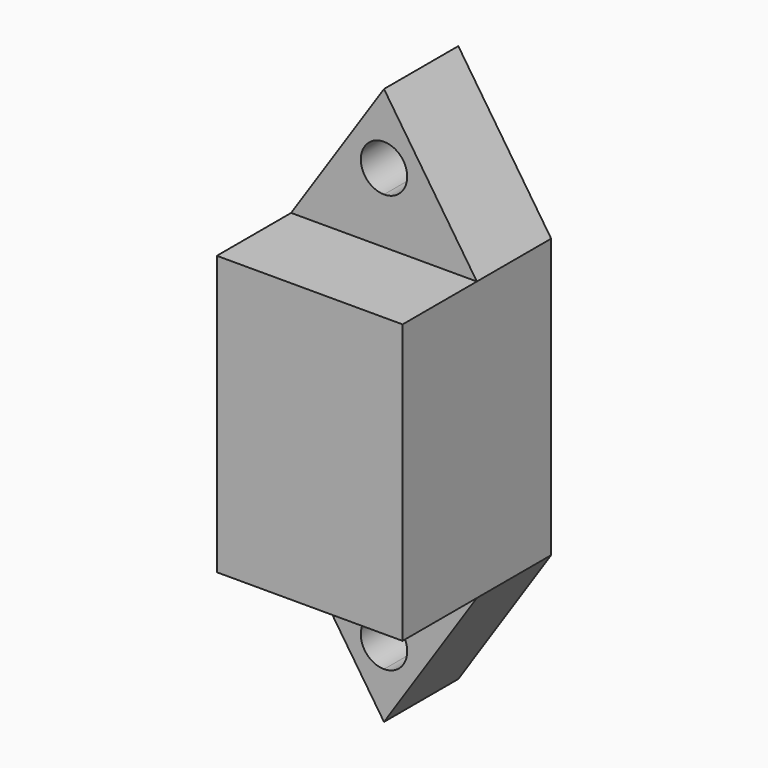
from build123d import *

# Parameters (mm, degrees)
F1_DEPTH = 101.6
F2_DEPTH = 50.8


with BuildPart() as f1:
    # F0 (on Front) → F1 (new body)
    with BuildSketch(Plane.XZ):
        Polygon((30.294443, 168.60885), (-20.505557, 168.60885), (-20.505557, 16.20885), (30.294443, 16.20885), (81.094443, 16.20885), (81.094443, 168.60885), align=None)
    extrude(amount=F1_DEPTH)

    # F0 (on Front) → F2 (join)
    with BuildSketch(Plane.XZ):
        with BuildLine():
            Line((30.294443, 244.80885), (-20.505557, 168.60885))
            Line((-20.505557, 168.60885), (30.294443, 168.60885))
            Line((30.294443, 168.60885), (30.294443, 194.00885))
            ThreePointArc((30.294443, 194.00885), (17.594443, 206.70885), (30.294443, 219.40885))
            Line((30.294443, 219.40885), (30.294443, 244.80885))
        make_face()
        Polygon((30.294443, 168.60885), (-20.505557, 168.60885), (-20.505557, 16.20885), (30.294443, 16.20885), (81.094443, 16.20885), (81.094443, 168.60885), align=None)
        with BuildLine():
            Line((30.294443, 194.00885), (30.294443, 168.60885))
            Line((30.294443, 168.60885), (81.094443, 168.60885))
            Line((81.094443, 168.60885), (30.294443, 244.80885))
            Line((30.294443, 244.80885), (30.294443, 219.40885))
            ThreePointArc((30.294443, 219.40885), (39.274699, 215.689107), (42.994443, 206.70885))
            ThreePointArc((42.994443, 206.70885), (39.274699, 197.728594), (30.294443, 194.00885))
        make_face()
        with BuildLine():
            Line((30.294443, 16.20885), (-20.505557, 16.20885))
            Line((-20.505557, 16.20885), (30.294443, -59.99115))
            Line((30.294443, -59.99115), (30.294443, -34.59115))
            ThreePointArc((30.294443, -34.59115), (17.594443, -21.89115), (30.294443, -9.19115))
            Line((30.294443, -9.19115), (30.294443, 16.20885))
        make_face()
        with BuildLine():
            Line((81.094443, 16.20885), (30.294443, 16.20885))
            Line((30.294443, 16.20885), (30.294443, -9.19115))
            ThreePointArc((30.294443, -9.19115), (39.274699, -12.910893), (42.994443, -21.89115))
            ThreePointArc((42.994443, -21.89115), (39.274699, -30.871406), (30.294443, -34.59115))
            Line((30.294443, -34.59115), (30.294443, -59.99115))
            Line((30.294443, -59.99115), (81.094443, 16.20885))
        make_face()
    extrude(amount=F2_DEPTH)


solid = f1.part
